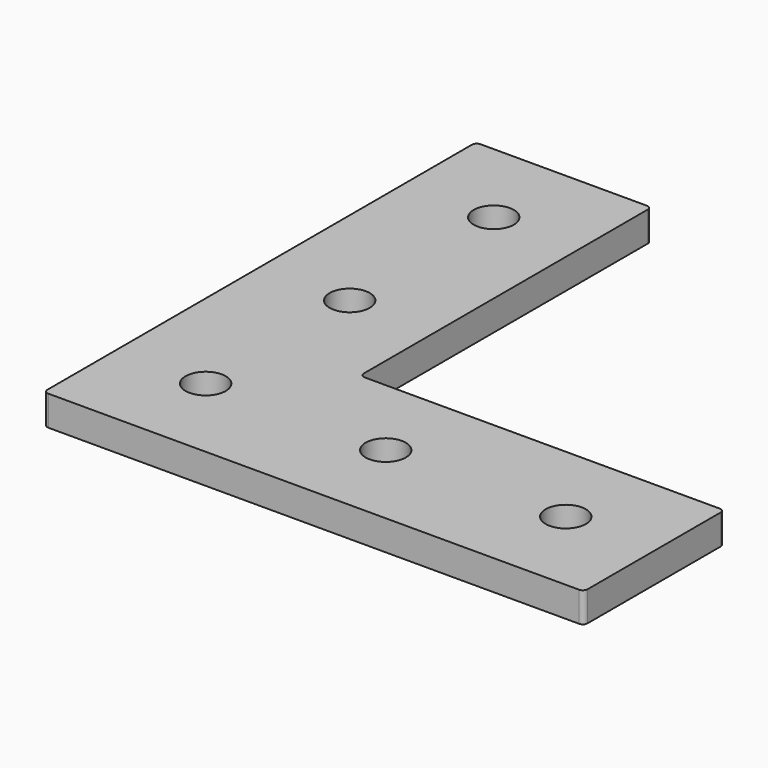
from build123d import *

# Parameters (mm, degrees)
SKETCH_R  = 4.25
PAD_DEPTH = 6.35


with BuildPart() as part:
    # Sketch → Pad (new body)
    with BuildSketch(Plane.XY):
        with BuildLine():
            Line((-113.3, 114.3), (-78.1144, 114.3))
            ThreePointArc((-77.1144, 113.3), (-77.407293, 114.007107), (-78.1144, 114.3))
            Line((-77.1144, 113.3), (-77.1144, 38.1856))
            ThreePointArc((-77.1144, 38.1856), (-76.821507, 37.478493), (-76.1144, 37.1856))
            Line((-76.1144, 37.1856), (-1, 37.1856))
            ThreePointArc((0, 36.1856), (-0.292893, 36.892707), (-1, 37.1856))
            Line((0, 36.1856), (0, 1))
            ThreePointArc((-1, 0), (-0.292893, 0.292893), (0, 1))
            Line((-1, 0), (-113.3, 0))
            ThreePointArc((-114.3, 1), (-114.007107, 0.292893), (-113.3, 0))
            Line((-114.3, 113.3), (-114.3, 1))
            ThreePointArc((-113.3, 114.3), (-114.007107, 114.007107), (-114.3, 113.3))
        make_face()
        with Locations((-19.05, 19.05)):
            Circle(SKETCH_R, mode=Mode.SUBTRACT)
        with Locations((-57.15, 19.05)):
            Circle(SKETCH_R, mode=Mode.SUBTRACT)
        with Locations((-95.25, 19.05)):
            Circle(SKETCH_R, mode=Mode.SUBTRACT)
        with Locations((-95.25, 57.15)):
            Circle(SKETCH_R, mode=Mode.SUBTRACT)
        with Locations((-95.25, 95.25)):
            Circle(SKETCH_R, mode=Mode.SUBTRACT)
    extrude(amount=PAD_DEPTH)


solid = part.part
